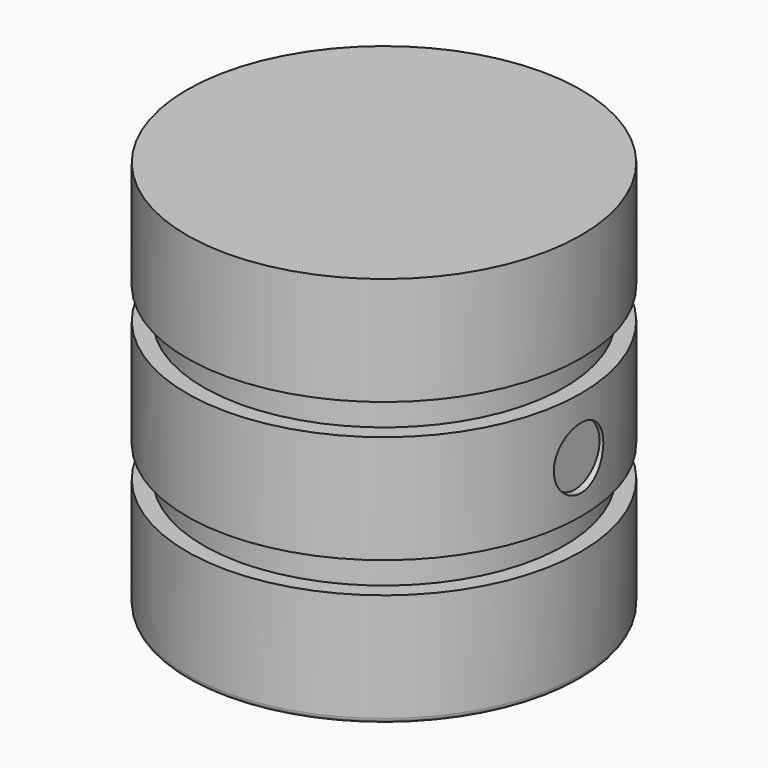
from build123d import *

# Parameters (mm, degrees)
F3_R     = 3
F4_DEPTH = 38.201
F5_R     = 3
F6_DEPTH = 18.5
F7_R     = 0.5


with BuildPart() as f1:
    # F0 (on Right) → F1 (revolve)
    with BuildSketch(Plane.YZ):
        Polygon((0, 38), (0, 33), (12.5, 33), (12.5, 12), (16, 12), (16, 0), (19.1, 0), (19.1, 11), (17.5, 11), (17.5, 14), (19.1, 14), (19.1, 24.5), (17.5, 24.5), (17.5, 27.5), (19.1, 27.5), (19.1, 38), align=None)
    revolve(axis=Axis((0, 0, 35.5), (0, 0, 1)))

    # F3 (on offset) → F4 (cut, through all)
    with BuildSketch(Plane.YZ.offset(19.1)):
        with Locations((0, 19)):
            Circle(F3_R)
    extrude(amount=-F4_DEPTH, mode=Mode.SUBTRACT)

    # F7
    f7_edges = [f1.edges().sort_by_distance(p)[0] for p in [
        (0, -19.1, 0),
        (0, -16, 0),
        (0, -16, 12),
        (0, -12.5, 12),
    ]]
    fillet(f7_edges, radius=F7_R)


with BuildPart() as f6:
    # F5 (on Right) → F6 (new body, symmetric)
    with BuildSketch(Plane.YZ):
        with Locations((0, 19.1)):
            Circle(F5_R)
    extrude(amount=F6_DEPTH, both=True)


solid = Compound([f1.part, f6.part])
